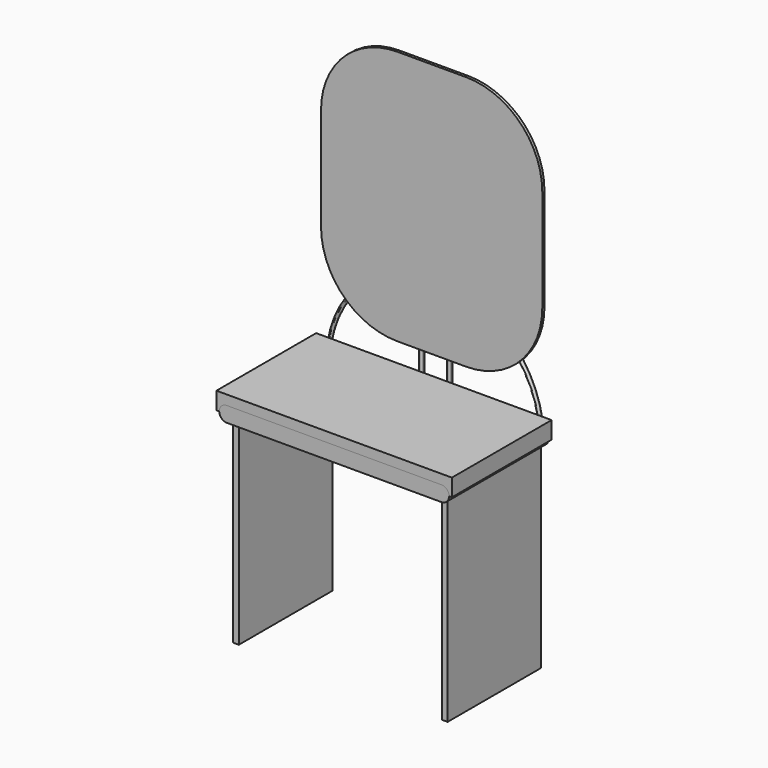
from build123d import *

# Parameters (mm, degrees)
F0_W      = 431.8
F0_H      = 228.6
F1_DEPTH  = 19.05
F3_DEPTH  = 114.3
F4_DEPTH  = 114.3
F6_DEPTH  = 5.08
F8_DEPTH  = 6.35
F7_W      = 6.35
F7_H      = 174.3738502264
F9_R      = 3.048
F9_2_R    = 3.048
F9_3_R    = 3.048
F10_DEPTH = 12.7
F11_W     = 10.7224714518
F11_H     = 214.4915186644
F12_DEPTH = 360.68


with BuildPart() as f1:
    # F0 (on Top) → F1 (new body)
    with BuildSketch(Plane.XY):
        Rectangle(F0_W, F0_H)
    extrude(amount=F1_DEPTH)

    # F2 (on Front) → F3 (cut, symmetric)
    with BuildSketch(Plane.XZ):
        with BuildLine():
            Line((0, 13.97), (-196.85, 13.97))
            ThreePointArc((-196.85, 13.97), (-210.82, 0), (-196.85, -13.97))
            Line((-196.85, -13.97), (0, -13.97))
            Line((0, -13.97), (196.85, -13.97))
            ThreePointArc((196.85, -13.97), (210.82, 0), (196.85, 13.97))
            Line((196.85, 13.97), (0, 13.97))
        make_face()
    extrude(amount=F3_DEPTH, both=True, mode=Mode.SUBTRACT)

    # F10 (add): a face of the model
    f10_faces = [f1.faces().sort_by_distance(p)[0] for p in [
        (0, 0, 19.05),
    ]]
    extrude(f10_faces, amount=F10_DEPTH)


with BuildPart() as f4:
    # F2 (on Front) → F4 (new body, symmetric)
    with BuildSketch(Plane.XZ):
        with BuildLine():
            Line((0, 13.97), (-196.85, 13.97))
            ThreePointArc((-196.85, 13.97), (-210.82, 0), (-196.85, -13.97))
            Line((-196.85, -13.97), (0, -13.97))
            Line((0, -13.97), (196.85, -13.97))
            ThreePointArc((196.85, -13.97), (210.82, 0), (196.85, 13.97))
            Line((196.85, 13.97), (0, 13.97))
        make_face()
    extrude(amount=F4_DEPTH, both=True)


with BuildPart() as f6:
    # F5 (on face) → F6 (new body)
    with BuildSketch(Plane(origin=(0, 114.3, 0), x_dir=(-1, 0, 0), z_dir=(0, 1, 0))):
        with BuildLine():
            ThreePointArc((-202.9003798962, 210.0764544052), (-161.9831972279, 111.2936370735), (-63.2003798962, 70.3764544052))
            Line((-63.2003798962, 70.3764544052), (63.2003798962, 70.3764544052))
            ThreePointArc((63.2003798962, 70.3764544052), (161.9831972279, 111.2936370735), (202.9003798962, 210.0764544052))
            Line((202.9003798962, 210.0764544052), (202.9003798962, 398.1558649498))
            ThreePointArc((202.9003798962, 398.1558649498), (161.9831972279, 496.9386822815), (63.2003798962, 537.8558649498))
            Line((63.2003798962, 537.8558649498), (-63.2003798962, 537.8558649498))
            ThreePointArc((-63.2003798962, 537.8558649498), (-161.9831972279, 496.9386822815), (-202.9003798962, 398.1558649498))
            Line((-202.9003798962, 398.1558649498), (-202.9003798962, 210.0764544052))
        make_face()
    extrude(amount=-F6_DEPTH)


with BuildPart() as f8:
    # F7 (on face) → F8 (new body)
    with BuildSketch(Plane(origin=(0, 114.3, 0), x_dir=(-1, 0, 0), z_dir=(0, 1, 0))):
        with BuildLine():
            Line((192.4523920559, -0.2381312304), (198.7979263067, 0))
            ThreePointArc((198.7979263067, 0), (0.3385171294, 191.1514453098), (-198.1208920479, 0))
            Line((-198.1208920479, 0), (-191.7753577971, -0.2381312304))
            ThreePointArc((-191.7753577971, -0.2381312304), (0.3385171294, 184.8014444113), (192.4523920559, -0.2381312304))
        make_face()
    extrude(amount=F8_DEPTH)

    # F9
    f9_edges = [f8.edges().sort_by_distance(p)[0] for p in [
        (-0.338517, 120.65, 191.151445),
        (-0.338517, 120.65, 184.801444),
        (-0.338517, 114.3, 191.151445),
        (-0.338517, 114.3, 184.801444),
    ]]
    fillet(f9_edges, radius=F9_R)


with BuildPart() as f8b:
    # F7 (on face) → F8, piece 2 (new body)
    with BuildSketch(Plane(origin=(0, 114.3, 0), x_dir=(-1, 0, 0), z_dir=(0, 1, 0))):
        with Locations((-25.5262569606, 87.1869251132)):
            Rectangle(F7_W, F7_H)
    extrude(amount=F8_DEPTH)

    # F9#2
    f9_2_edges = [f8b.edges().sort_by_distance(p)[0] for p in [
        (28.701257, 114.3, 87.186925),
        (22.351257, 114.3, 87.186925),
    ]]
    fillet(f9_2_edges, radius=F9_2_R)


with BuildPart() as f8c:
    # F7 (on face) → F8, piece 3 (new body)
    with BuildSketch(Plane(origin=(0, 114.3, 0), x_dir=(-1, 0, 0), z_dir=(0, 1, 0))):
        with Locations((25.5262569606, 87.1869251132)):
            Rectangle(F7_W, F7_H)
    extrude(amount=F8_DEPTH)

    # F9#3
    f9_3_edges = [f8c.edges().sort_by_distance(p)[0] for p in [
        (-22.351257, 114.3, 87.186925),
        (-28.701257, 114.3, 87.186925),
    ]]
    fillet(f9_3_edges, radius=F9_3_R)


with BuildPart() as f12:
    # F11 (on face) → F12 (new body)
    with BuildSketch(Plane(origin=(0, 0, -13.97), x_dir=(1, 0, 0), z_dir=(0, 0, -1))):
        with Locations((-191.4887642741, -7.0542406678)):
            Rectangle(F11_W, F11_H)
    extrude(amount=F12_DEPTH)


with BuildPart() as f12b:
    # F11 (on face) → F12, piece 2 (new body)
    with BuildSketch(Plane(origin=(0, 0, -13.97), x_dir=(1, 0, 0), z_dir=(0, 0, -1))):
        with Locations((191.4887642741, -7.0542406678)):
            Rectangle(F11_W, F11_H)
    extrude(amount=F12_DEPTH)


solid = Compound([f1.part, f4.part, f6.part, f8.part, f8b.part, f8c.part, f12.part, f12b.part])
